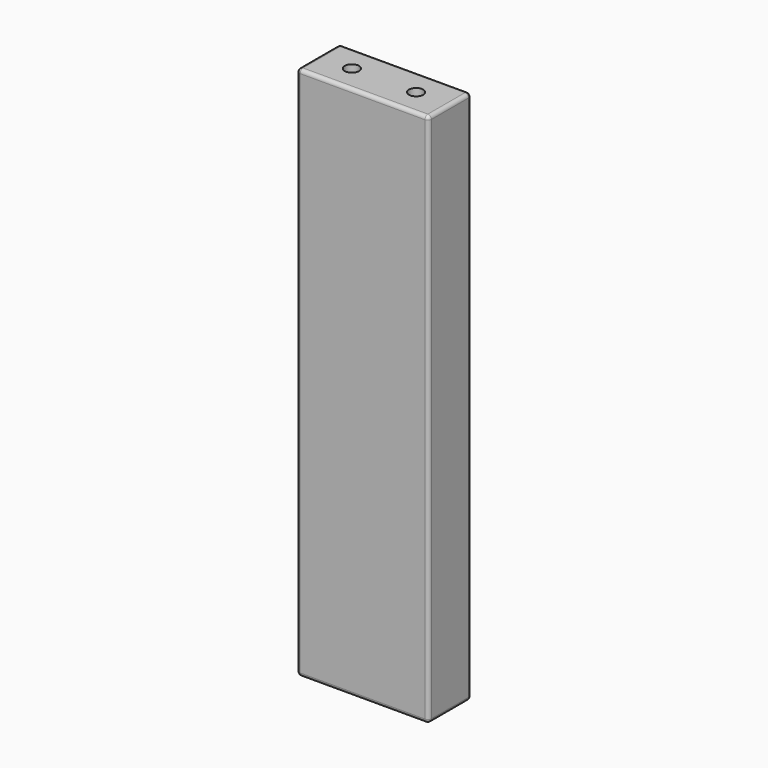
from build123d import *

# Parameters (mm, degrees)
F0_W     = 37
F0_H     = 15
F1_DEPTH = 150
F2_W     = 31
F2_H     = 144
F3_DEPTH = 12
F4_R     = 2
F5_DEPTH = 150.001
F6_R     = 1
F7_R     = 1


with BuildPart() as f1:
    # F0 (on Top) → F1 (new body)
    with BuildSketch(Plane.XY):
        Rectangle(F0_W, F0_H)
    extrude(amount=F1_DEPTH)

    # F2 (on face) → F3 (cut)
    with BuildSketch(Plane(origin=(0, 7.5, 0), x_dir=(-1, 0, 0), z_dir=(0, 1, 0))):
        with Locations((0, 75)):
            Rectangle(F2_W, F2_H)
    extrude(amount=-F3_DEPTH, mode=Mode.SUBTRACT)

    # F4 (on face) → F5 (cut, through all)
    with BuildSketch(Plane.XY.offset(150)):
        with Locations((9, 0)):
            Circle(F4_R)
        with Locations((-9, 0)):
            Circle(F4_R)
    extrude(amount=-F5_DEPTH, mode=Mode.SUBTRACT)

    # F6
    f6_edges = [f1.edges().sort_by_distance(p)[0] for p in [
        (-18.5, 0, 150),
        (18.5, 0, 150),
        (-18.5, 0, 0),
        (18.5, 0, 0),
    ]]
    fillet(f6_edges, radius=F6_R)

    # F7
    f7_edges = [f1.edges().sort_by_distance(p)[0] for p in [
        (18.5, -7.5, 75),
        (18.5, 7.5, 75),
    ]]
    fillet(f7_edges, radius=F7_R)


solid = f1.part
